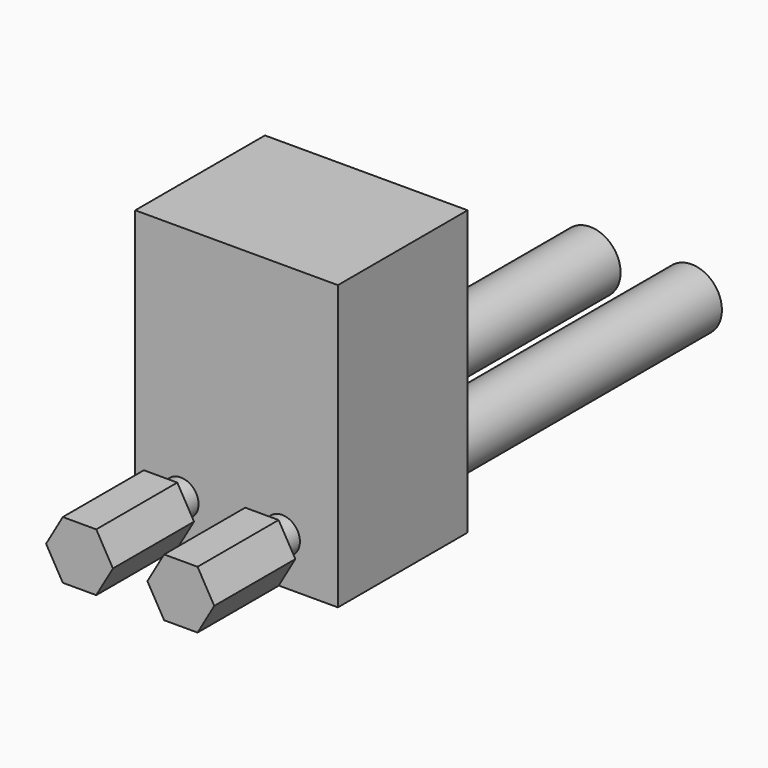
from build123d import *

# Parameters (mm, degrees)
PRISM002_DEPTH         = 10
PRISM002_ROLL_ANGLE    = -90
CYLINDER089_R          = 3
CYLINDER089_DEPTH      = 32
CYLINDER089_ROLL_ANGLE = -90
CYLINDER090_R          = 3
CYLINDER090_DEPTH      = 32
CYLINDER090_ROLL_ANGLE = -90
BOX070_W               = 20
BOX070_H               = 16
BOX070_DEPTH           = 28
CYLINDER091_R          = 1.75
CYLINDER091_DEPTH      = 32
CYLINDER091_ROLL_ANGLE = -90
CYLINDER092_R          = 1.75
CYLINDER092_DEPTH      = 32
CYLINDER092_ROLL_ANGLE = -90
PRISM_DEPTH            = 10
PRISM_ROLL_ANGLE       = -90


with BuildPart() as prisma002:
    # Prism002 → Prism002 (new body)
    with BuildSketch(Plane.XY):
        Polygon((3.3, 0), (1.65, 2.857884), (-1.65, 2.857884), (-3.3, 0), (-1.65, -2.857884), (1.65, -2.857884), align=None)
    extrude(amount=PRISM002_DEPTH)


with BuildPart() as prisma002_1:
    # Prism002 roll: moved
    add(prisma002.part.rotate(Axis((0, 0, 0), (1, 0, 0)), PRISM002_ROLL_ANGLE))


with BuildPart() as prisma002_2:
    # Prism002 placement: moved
    add(prisma002_1.part.moved(Location((8, 85, 84))))


with BuildPart() as cilindro017:
    # Cylinder089 → Cylinder089 (new body)
    with BuildSketch(Plane.XY):
        Circle(CYLINDER089_R)
    extrude(amount=CYLINDER089_DEPTH)


with BuildPart() as cilindro017_1:
    # Cylinder089 roll: moved
    add(cilindro017.part.rotate(Axis((0, 0, 0), (1, 0, 0)), CYLINDER089_ROLL_ANGLE))


with BuildPart() as cilindro017_2:
    # Cylinder089 placement: moved
    add(cilindro017_1.part.moved(Location((18, 116, 84))))


with BuildPart() as cilindro018:
    # Cylinder090 → Cylinder090 (new body)
    with BuildSketch(Plane.XY):
        Circle(CYLINDER090_R)
    extrude(amount=CYLINDER090_DEPTH)


with BuildPart() as cilindro018_1:
    # Cylinder090 roll: moved
    add(cilindro018.part.rotate(Axis((0, 0, 0), (1, 0, 0)), CYLINDER090_ROLL_ANGLE))


with BuildPart() as cilindro018_2:
    # Cylinder090 placement: moved
    add(cilindro018_1.part.moved(Location((8, 116, 84))))


with BuildPart() as cubo005:
    # Box070 → Box070 (new body)
    with BuildSketch(Plane(origin=(3.5, 97.5, 79.5), x_dir=(1, 0, 0), z_dir=(0, 0, 1))):
        with Locations((10, 8)):
            Rectangle(BOX070_W, BOX070_H)
    extrude(amount=BOX070_DEPTH)


with BuildPart() as cilindro013:
    # Cylinder091 → Cylinder091 (new body)
    with BuildSketch(Plane.XY):
        Circle(CYLINDER091_R)
    extrude(amount=CYLINDER091_DEPTH)


with BuildPart() as cilindro013_1:
    # Cylinder091 roll: moved
    add(cilindro013.part.rotate(Axis((0, 0, 0), (1, 0, 0)), CYLINDER091_ROLL_ANGLE))


with BuildPart() as cilindro013_2:
    # Cylinder091 placement: moved
    add(cilindro013_1.part.moved(Location((18, 90, 84))))


with BuildPart() as cilindro012:
    # Cylinder092 → Cylinder092 (new body)
    with BuildSketch(Plane.XY):
        Circle(CYLINDER092_R)
    extrude(amount=CYLINDER092_DEPTH)


with BuildPart() as cilindro012_1:
    # Cylinder092 roll: moved
    add(cilindro012.part.rotate(Axis((0, 0, 0), (1, 0, 0)), CYLINDER092_ROLL_ANGLE))


with BuildPart() as cilindro012_2:
    # Cylinder092 placement: moved
    add(cilindro012_1.part.moved(Location((8, 90, 84))))


with BuildPart() as arm_positive_cut:
    # Prism → Prism (new body)
    with BuildSketch(Plane.XY):
        Polygon((3.3, 0), (1.65, 2.857884), (-1.65, 2.857884), (-3.3, 0), (-1.65, -2.857884), (1.65, -2.857884), align=None)
    extrude(amount=PRISM_DEPTH)


with BuildPart() as arm_positive_cut_1:
    # Prism roll: moved
    add(arm_positive_cut.part.rotate(Axis((0, 0, 0), (1, 0, 0)), PRISM_ROLL_ANGLE))


with BuildPart() as arm_positive_cut_2:
    # Prism placement: moved
    add(arm_positive_cut_1.part.moved(Location((18, 85, 84))))

    # Fusion066: union Prisma002, Cilindro017, Cilindro018, Cubo005, Cilindro013, Cilindro012
    add(prisma002_2.part)
    add(cilindro017_2.part)
    add(cilindro018_2.part)
    add(cubo005.part)
    add(cilindro013_2.part)
    add(cilindro012_2.part)


solid = arm_positive_cut_2.part
